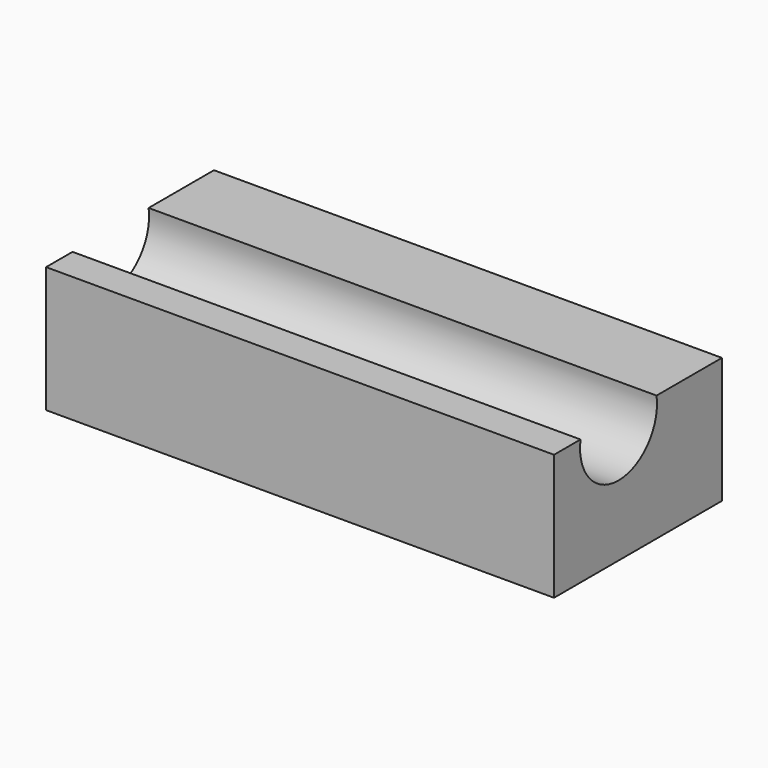
from build123d import *

# Parameters (mm, degrees)
F0_W          = 72.61
F0_H          = 30
F1_DEPTH      = 18
F2_R          = 6.875
F3_DEPTH      = 36.306
F3_DEPTH_BACK = 45


with BuildPart() as f1:
    # F0 (on Top) → F1 (new body)
    with BuildSketch(Plane.XY):
        Rectangle(F0_W, F0_H)
    extrude(amount=-F1_DEPTH)

    # F2 (on Right) → F3 (cut, two sides)
    with BuildSketch(Plane.YZ) as f3_sk:
        with Locations((-3.475, -1.045)):
            Circle(F2_R)
    extrude(amount=-F3_DEPTH, mode=Mode.SUBTRACT)
    extrude(f3_sk.sketch, amount=F3_DEPTH_BACK, mode=Mode.SUBTRACT)


solid = f1.part
